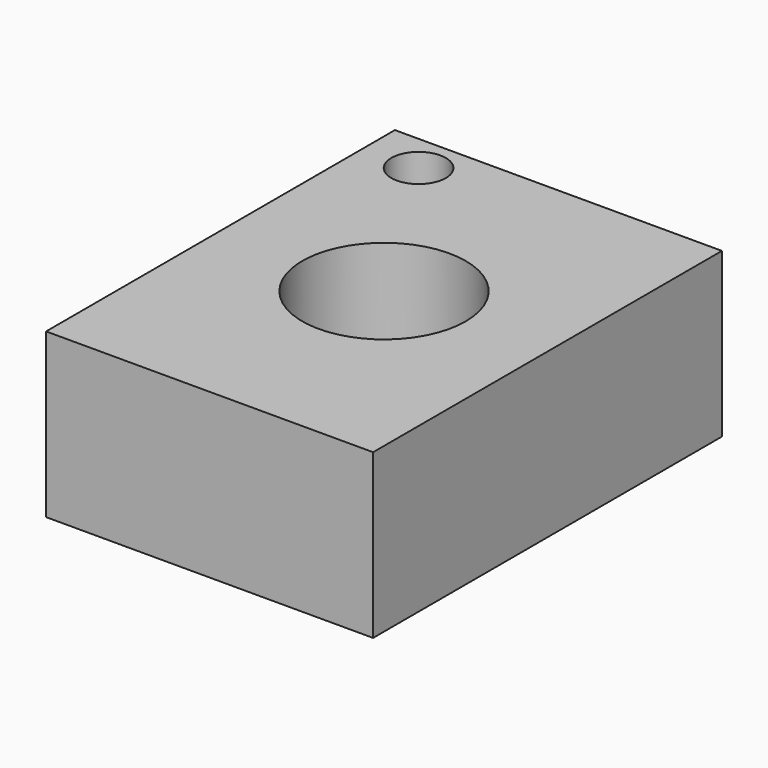
from build123d import *

# Parameters (mm, degrees)
F0_W          = 60
F0_H          = 80
F0_R          = 15
F1_DEPTH      = 30
F2_R          = 5
F3_DEPTH      = 25
F3_DEPTH_BACK = 44.5


with BuildPart() as f1:
    # F0 (on Top) → F1 (new body)
    with BuildSketch(Plane.XY):
        Rectangle(F0_W, F0_H)
        Circle(F0_R, mode=Mode.SUBTRACT)
    extrude(amount=F1_DEPTH)

    # F2 (on Top) → F3 (cut, two sides)
    with BuildSketch(Plane.XY) as f3_sk:
        with Locations((-20, 32.9334698617)):
            Circle(F2_R)
    extrude(amount=-F3_DEPTH, mode=Mode.SUBTRACT)
    extrude(f3_sk.sketch, amount=F3_DEPTH_BACK, mode=Mode.SUBTRACT)


solid = f1.part
